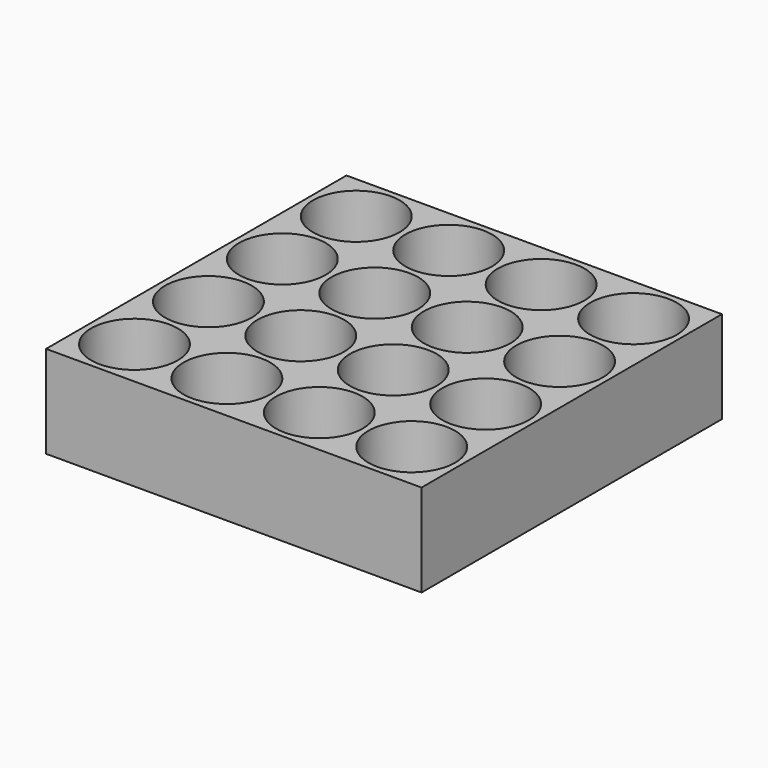
from build123d import *

# Parameters (mm, degrees)
F0_W     = 130
F0_H     = 130
F1_DEPTH = 2
F2_W     = 130
F2_H     = 130
F2_R     = 15
F3_DEPTH = 30


with BuildPart() as f1:
    # F0 (on Top) → F1 (new body)
    with BuildSketch(Plane.XY):
        with Locations((-10, 10)):
            Rectangle(F0_W, F0_H)
    extrude(amount=F1_DEPTH)

    # F2 (on face) → F3 (join)
    with BuildSketch(Plane.XY.offset(2)):
        with Locations((-10, 10)):
            Rectangle(F2_W, F2_H)
        with Locations((-58, -38)):
            Circle(F2_R, mode=Mode.SUBTRACT)
        with Locations((-26, -38)):
            Circle(F2_R, mode=Mode.SUBTRACT)
        with Locations((-58, -6)):
            Circle(F2_R, mode=Mode.SUBTRACT)
        with Locations((-26, -6)):
            Circle(F2_R, mode=Mode.SUBTRACT)
        with Locations((6, -38)):
            Circle(F2_R, mode=Mode.SUBTRACT)
        with Locations((38, -38)):
            Circle(F2_R, mode=Mode.SUBTRACT)
        with Locations((6, -6)):
            Circle(F2_R, mode=Mode.SUBTRACT)
        with Locations((38, -6)):
            Circle(F2_R, mode=Mode.SUBTRACT)
        with Locations((-58, 26)):
            Circle(F2_R, mode=Mode.SUBTRACT)
        with Locations((-26, 26)):
            Circle(F2_R, mode=Mode.SUBTRACT)
        with Locations((-58, 58)):
            Circle(F2_R, mode=Mode.SUBTRACT)
        with Locations((-26, 58)):
            Circle(F2_R, mode=Mode.SUBTRACT)
        with Locations((6, 26)):
            Circle(F2_R, mode=Mode.SUBTRACT)
        with Locations((38, 26)):
            Circle(F2_R, mode=Mode.SUBTRACT)
        with Locations((6, 58)):
            Circle(F2_R, mode=Mode.SUBTRACT)
        with Locations((38, 58)):
            Circle(F2_R, mode=Mode.SUBTRACT)
    extrude(amount=F3_DEPTH)


solid = f1.part
